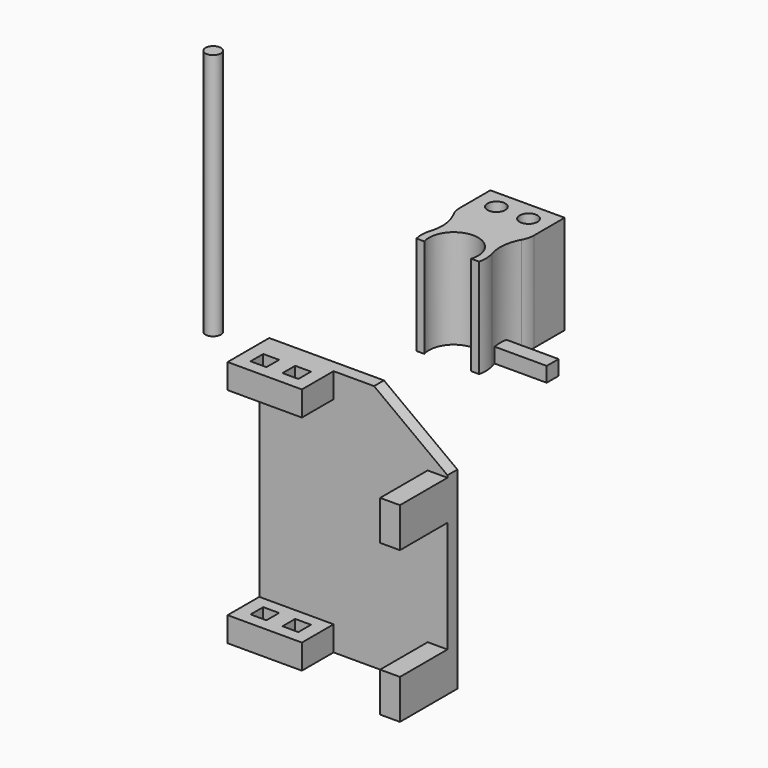
from build123d import *

# Parameters (mm, degrees)
F0_R      = 1.8
F1_DEPTH  = 20
F2_R      = 1.55
F3_DEPTH  = 50
F5_DEPTH  = 2.5
F7_W      = 15
F7_H      = 8
F7_W_2    = 3.2
F7_H_2    = 3.2
F8_DEPTH  = 5
F10_W     = 15
F10_H     = 8
F10_W_2   = 3.2
F10_H_2   = 3.2
F11_DEPTH = 5
F8_FACE_W = 3.2
F8_FACE_H = 3.2
F12_DEPTH = 5
F13_DEPTH = 5
F15_W     = 3.5
F15_H     = 3.5
F16_DEPTH = 2
F21_W     = 4
F21_H     = 8
F22_DEPTH = 12


with BuildPart() as f1:
    # F0 (on Top) → F1 (new body)
    with BuildSketch(Plane.XY):
        with BuildLine():
            Line((-1.7013245255, 14.85), (-16.7013245255, 14.85))
            Line((-16.7013245255, 14.85), (-16.7013245255, 7.138181035))
            ThreePointArc((-16.7013245255, 7.138181035), (-16.5443915782, 5.8953208166), (-16.0834439164, 4.730478885))
            ThreePointArc((-16.0834439164, 4.730478885), (-15.0760818808, 1.4955191332), (-15.4115688703, -1.8760074271))
            ThreePointArc((-15.4115688703, -1.8760074271), (-15.6975075526, -3.5723624586), (-15.5284241586, -5.2843181032))
            Line((-15.5284241586, -5.2843181032), (-13.9219907673, -5.2843181032))
            ThreePointArc((-13.9219907673, -5.2843181032), (-9.2013245255, 1.1549133205), (-4.4806582836, -5.2843181032))
            Line((-4.4806582836, -5.2843181032), (-2.8742248924, -5.2843181032))
            ThreePointArc((-2.8742248924, -5.2843181032), (-2.7051414984, -3.5723624586), (-2.9910801806, -1.8760074271))
            ThreePointArc((-2.9910801806, -1.8760074271), (-3.3265671701, 1.4955191332), (-2.3192051345, 4.730478885))
            ThreePointArc((-2.3192051345, 4.730478885), (-1.8582574727, 5.8953208166), (-1.7013245255, 7.138181035))
            Line((-1.7013245255, 7.138181035), (-1.7013245255, 14.85))
        make_face()
        with Locations((-12.4513245255, 11.05)):
            Circle(F0_R, mode=Mode.SUBTRACT)
        with Locations((-5.9513245255, 11.05)):
            Circle(F0_R, mode=Mode.SUBTRACT)
    extrude(amount=F1_DEPTH)

    # F18 (on offset) → F19 (join, up to the next surface of F1)
    with BuildSketch(Plane.YZ.offset(7.2986754745)):
        Polygon((-0.9315468051, 3), (-0.9315468051, 0), (1.5240813373, 0), (2.0684531949, 0), (2.0684531949, 3), align=None)
    extrude(until=Until.NEXT, dir=(-1, 0, 0))


with BuildPart() as f3:
    # F2 (on Top) → F3 (new body)
    with BuildSketch(Plane.XY):
        with Locations((-44.6339435875, -20.2118121088)):
            Circle(F2_R)
    extrude(amount=F3_DEPTH)


with BuildPart() as f5:
    # F4 (on Front) → F5 (new body)
    with BuildSketch(Plane.XZ):
        Polygon((-26.3123400509, -10.8838126063), (-49.4867837727, -10.8838126063), (-49.4867837727, -60.8838126063), (-11.4867837727, -60.8838126063), (-11.4867837727, -21.909378469), align=None)
    extrude(amount=F5_DEPTH)

    # F7 (on offset) → F8 (join)
    with BuildSketch(Plane.XY.offset(-10.8838126063)):
        with Locations((-41.9867837727, -6.5)):
            Rectangle(F7_W, F7_H)
        with Locations((-45.2117837727, -6.45)):
            Rectangle(F7_W_2, F7_H_2, mode=Mode.SUBTRACT)
        with Locations((-38.7617837727, -6.45)):
            Rectangle(F7_W_2, F7_H_2, mode=Mode.SUBTRACT)
    extrude(amount=-F8_DEPTH)

    # F10 (on offset) → F11 (join)
    with BuildSketch(Plane(origin=(0, 0, -60.8838126063), x_dir=(1, 0, 0), z_dir=(0, 0, -1))):
        with Locations((-41.9867837727, 6.5)):
            Rectangle(F10_W, F10_H)
        with Locations((-45.2117837727, 6.45)):
            Rectangle(F10_W_2, F10_H_2, mode=Mode.SUBTRACT)
        with Locations((-38.7617837727, 6.45)):
            Rectangle(F10_W_2, F10_H_2, mode=Mode.SUBTRACT)
    extrude(amount=-F11_DEPTH)

    # F7 (on offset) + F8_face (on face) → F12 (join)
    with BuildSketch(Plane.XY.offset(-10.8838126063)):
        with Locations((-41.9867837727, -6.5)):
            Rectangle(F7_W, F7_H)
        with Locations((-45.2117837727, -6.45)):
            Rectangle(F7_W_2, F7_H_2, mode=Mode.SUBTRACT)
        with Locations((-38.7617837727, -6.45)):
            Rectangle(F7_W_2, F7_H_2, mode=Mode.SUBTRACT)
    with BuildSketch(Plane(origin=(-40.4828870136, -4.5747614355, -10.8838126063), x_dir=(1, 0, 0), z_dir=(0, 0, 1))):
        Polygon((14.1705469627, 2.0747614355), (14.1705469627, 4.5747614355), (-9.0038967591, 4.5747614355), (-9.0038967591, -5.9252385645), (5.9961032409, -5.9252385645), (5.9961032409, 2.0747614355), align=None)
        with Locations((1.7211032409, -1.8752385645)):
            Rectangle(F8_FACE_W, F8_FACE_H, mode=Mode.SUBTRACT)
        with Locations((-4.7288967591, -1.8752385645)):
            Rectangle(F8_FACE_W, F8_FACE_H, mode=Mode.SUBTRACT)
    extrude(amount=-F12_DEPTH)

    # F10 (on offset) → F13 (join)
    with BuildSketch(Plane(origin=(0, 0, -60.8838126063), x_dir=(1, 0, 0), z_dir=(0, 0, -1))):
        with Locations((-41.9867837727, 6.5)):
            Rectangle(F10_W, F10_H)
        with Locations((-45.2117837727, 6.45)):
            Rectangle(F10_W_2, F10_H_2, mode=Mode.SUBTRACT)
        with Locations((-38.7617837727, 6.45)):
            Rectangle(F10_W_2, F10_H_2, mode=Mode.SUBTRACT)
    extrude(amount=-F13_DEPTH)

    # F15 (on offset) → F16 (join)
    with BuildSketch(Plane(origin=(0, 0, -60.8838126063), x_dir=(1, 0, 0), z_dir=(0, 0, -1))):
        with Locations((-38.6117837727, 6.3)):
            Rectangle(F15_W, F15_H)
        with Locations((-45.0617837727, 6.6)):
            Rectangle(F15_W, F15_H)
    extrude(amount=-F16_DEPTH)

    # F21 (on offset) → F22 (join)
    with BuildSketch(Plane.XZ.offset(2.5)):
        with Locations((-13.4867837727, -56.8838126063)):
            Rectangle(F21_W, F21_H)
        with Locations((-13.4867837727, -26.35405837)):
            Rectangle(F21_W, F21_H)
    extrude(amount=F22_DEPTH)


solid = Compound([f1.part, f3.part, f5.part])
